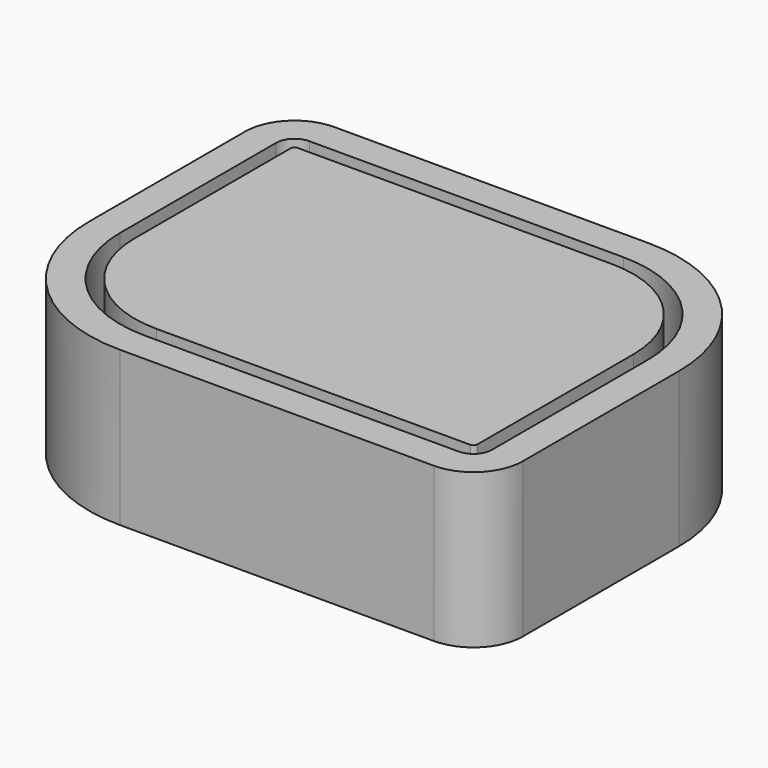
from build123d import *

# Parameters (mm, degrees)
F1_DEPTH = 25


with BuildPart() as f1:
    # F0 (on Top) → F1 (new body)
    with BuildSketch(Plane.XY):
        with BuildLine():
            Line((18.907416, 32.293), (-31.941584, 32.293))
            ThreePointArc((-31.941584, 32.293), (-37.598438, 29.949854), (-39.941584, 24.293))
            Line((-39.941584, 24.293), (-39.941584, -7.293))
            ThreePointArc((-39.941584, -7.293), (-32.619253, -24.97067), (-14.941584, -32.293))
            Line((-14.941584, -32.293), (35.907416, -32.293))
            ThreePointArc((35.907416, -32.293), (41.564271, -29.949854), (43.907416, -24.293))
            Line((43.907416, -24.293), (43.907416, 7.293))
            ThreePointArc((43.907416, 7.293), (36.585086, 24.97067), (18.907416, 32.293))
        make_face()
        with BuildLine():
            ThreePointArc((-34.941584, 24.293), (-34.062904, 26.41432), (-31.941584, 27.293))
            Line((-31.941584, 27.293), (18.907416, 27.293))
            ThreePointArc((18.907416, 27.293), (33.049552, 21.435136), (38.907416, 7.293))
            Line((38.907416, 7.293), (38.907416, -24.293))
            ThreePointArc((38.907416, -24.293), (38.028737, -26.41432), (35.907416, -27.293))
            Line((35.907416, -27.293), (-14.941584, -27.293))
            ThreePointArc((-14.941584, -27.293), (-29.083719, -21.435136), (-34.941584, -7.293))
            Line((-34.941584, -7.293), (-34.941584, 24.293))
        make_face(mode=Mode.SUBTRACT)
        with BuildLine():
            Line((18.907416, 24.928059), (-31.941584, 24.928059))
            ThreePointArc((-31.941584, 24.928059), (-32.390638, 24.742055), (-32.576643, 24.293))
            Line((-32.576643, 24.293), (-32.576643, -7.293))
            ThreePointArc((-32.576643, -7.293), (-27.411454, -19.76287), (-14.941584, -24.928059))
            Line((-14.941584, -24.928059), (35.907416, -24.928059))
            ThreePointArc((35.907416, -24.928059), (36.356471, -24.742055), (36.542476, -24.293))
            Line((36.542476, -24.293), (36.542476, 7.293))
            ThreePointArc((36.542476, 7.293), (31.377286, 19.76287), (18.907416, 24.928059))
        make_face()
    extrude(amount=F1_DEPTH)


solid = f1.part
